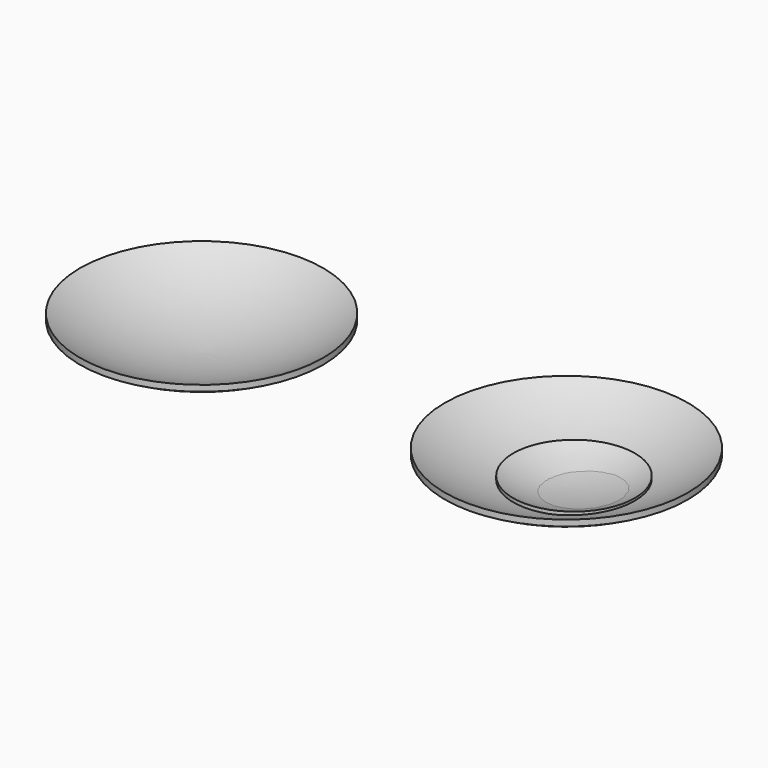
from build123d import *


with BuildPart() as f1:
    # F0 (on Front) → F1 (revolve)
    with BuildSketch(Plane.XZ):
        with BuildLine():
            Line((35, 5.9843270635), (35, 0))
            Line((35, 0), (40, 0))
            Line((40, 0), (40, 6.983375621))
            ThreePointArc((40, 6.983375621), (37.5030927805, 6.4683727126), (35, 5.9843270635))
        make_face()
        with BuildLine():
            ThreePointArc((0, 2.4970802478), (17.5746045293, 3.4919300062), (35, 5.9843270635))
            ThreePointArc((35, 5.9843270635), (37.5030927805, 6.4683727126), (40, 6.983375621))
            ThreePointArc((40, 6.983375621), (70.9035417092, 16.1363249363), (100, 30))
            Line((100, 30), (100, 35))
            ThreePointArc((100, 35), (52.0148358784, 13.5482064407), (0, 5.9843270635))
            Line((0, 5.9843270635), (0, 2.4970802478))
        make_face()
    revolve(axis=Axis((0, 0, 4.2407036557), (0, 0, -1)))


with BuildPart() as f2_1:
    # F2: copy of F1
    add(f1.part.moved(Location((300, 0, 0))))


with BuildPart() as f4:
    # F3 (on Front) → F4 (revolve)
    with BuildSketch(Plane.XZ):
        with BuildLine():
            Line((327.2622249126, -0.3114175873), (327.2622249126, -1.1998693662))
            Line((327.2622249126, -1.1998693662), (332.2622249126, -1.1998693662))
            Line((332.2622249126, -1.1998693662), (332.2622249126, 4.7881089665))
            add(Edge.make_bspline(
                [(332.2622249126, 4.7881089665), (336.2965618874, 5.8172551791), (344.5922886063, 8.5014278162), (352.2962648635, 11.8282685782), (356.2622249126, 13.8001306338)],
                knots=[0, 0, 0, 0, 0.4984940084, 1, 1, 1, 1], degree=3))
            Line((356.2622249126, 13.8001306338), (356.2622249126, 16.8001306338))
            add(Edge.make_bspline(
                [(306.2622249126, 3.5730067175), (316.9249091125, 3.999584941), (331.0079076474, 7.1590624758), (348.1921892161, 12.5070872256), (356.2622249126, 16.8001306338)],
                knots=[0, 0, 0, 0, 0.4981860476, 1, 1, 1, 1], degree=3))
            Line((306.2622249126, 3.5730067175), (306.2622249126, 0.7190341712))
            add(Edge.make_bspline(
                [(306.2622249126, 0.7190341712), (309.8702625312, 0.8243447628), (316.7518318048, 1.6433737349), (320.8746612072, 2.0782221109), (323.9556849003, 2.6728801895)],
                knots=[0, 0, 0, 0, 0.5380731441, 1, 1, 1, 1], degree=3))
            ThreePointArc((323.9556849003, 2.6728801895), (326.272247296, 1.9156455053), (327.2622249126, -0.3114175873))
        make_face()
        with BuildLine():
            Line((327.2622249126, -0.3114175873), (327.2622249126, -1.1998693662))
            Line((327.2622249126, -1.1998693662), (332.2622249126, -1.1998693662))
            Line((332.2622249126, -1.1998693662), (332.2622249126, 4.7881089665))
            add(Edge.make_bspline(
                [(332.2622249126, 4.7881089665), (336.2965618874, 5.8172551791), (344.5922886063, 8.5014278162), (352.2962648635, 11.8282685782), (356.2622249126, 13.8001306338)],
                knots=[0, 0, 0, 0, 0.4984940084, 1, 1, 1, 1], degree=3))
            Line((356.2622249126, 13.8001306338), (356.2622249126, 16.8001306338))
            add(Edge.make_bspline(
                [(306.2622249126, 3.5730067175), (316.9249091125, 3.999584941), (331.0079076474, 7.1590624758), (348.1921892161, 12.5070872256), (356.2622249126, 16.8001306338)],
                knots=[0, 0, 0, 0, 0.4981860476, 1, 1, 1, 1], degree=3))
            Line((306.2622249126, 3.5730067175), (306.2622249126, 0.7190341712))
            add(Edge.make_bspline(
                [(306.2622249126, 0.7190341712), (309.8702625312, 0.8243447628), (316.7518318048, 1.6433737349), (320.8746612072, 2.0782221109), (323.9556849003, 2.6728801895)],
                knots=[0, 0, 0, 0, 0.5380731441, 1, 1, 1, 1], degree=3))
            ThreePointArc((323.9556849003, 2.6728801895), (326.272247296, 1.9156455053), (327.2622249126, -0.3114175873))
        make_face()
    revolve(axis=Axis((306.2622249126, 0, -3.0061346859), (0, 0, -1)))


solid = Compound([f1.part, f2_1.part, f4.part])
